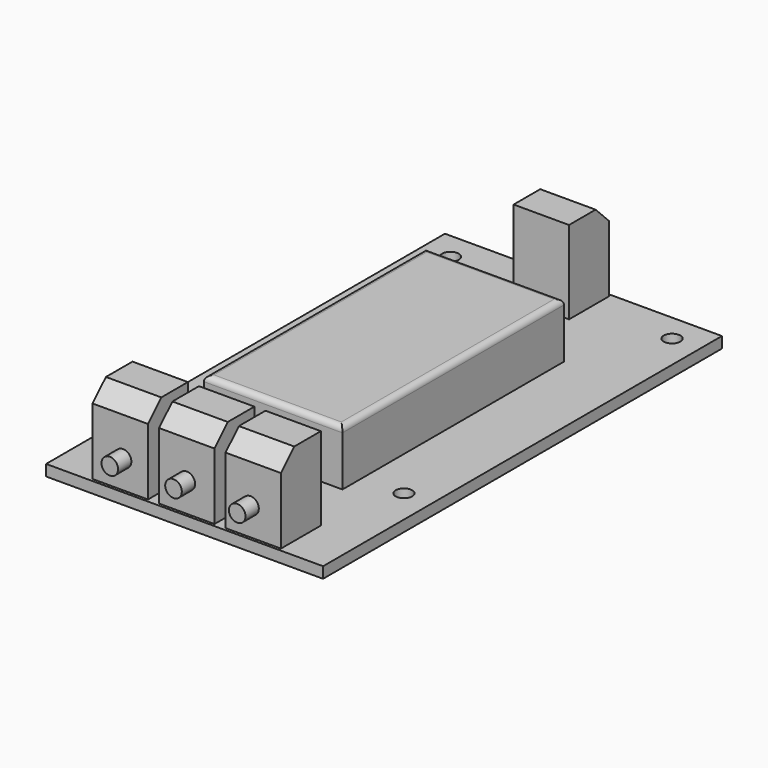
from build123d import *

# Parameters (mm, degrees)
F0_W      = 50
F0_H      = 90
F1_DEPTH  = 2
F2_R      = 1.5
F3_DEPTH  = 2
F4_W      = 25
F4_H      = 50
F5_DEPTH  = 10
F6_W      = 10
F6_H      = 9
F7_DEPTH  = 15
F8_R      = 1.5
F9_DEPTH  = 3
F10_R     = 1.5
F11_DEPTH = 3
F12_R     = 1
F13_SIZE  = 3


with BuildPart() as f1:
    # F0 (on Top) → F1 (new body)
    with BuildSketch(Plane.XY):
        Rectangle(F0_W, F0_H)
    extrude(amount=F1_DEPTH)

    # F2 (on face) → F3 (cut, through all)
    with BuildSketch(Plane.XY.offset(2)):
        with Locations((-20, 40)):
            Circle(F2_R)
        with Locations((20, 40)):
            Circle(F2_R)
        with Locations((-20, -20.5)):
            Circle(F2_R)
        with Locations((20, -20.5)):
            Circle(F2_R)
    extrude(amount=-F3_DEPTH, mode=Mode.SUBTRACT)

    # F4 (on face) → F5 (join)
    with BuildSketch(Plane.XY.offset(2)):
        Rectangle(F4_W, F4_H)
    extrude(amount=F5_DEPTH)

    # F6 (on face) → F7 (join)
    with BuildSketch(Plane.XY.offset(2)):
        with Locations((0, -40)):
            Rectangle(F6_W, F6_H)
        with Locations((0, 40)):
            Rectangle(F6_W, F6_H)
        with Locations((12, -40)):
            Rectangle(F6_W, F6_H)
        with Locations((-12, -40)):
            Rectangle(F6_W, F6_H)
    extrude(amount=F7_DEPTH)

    # F8 (on face) → F9 (join)
    with BuildSketch(Plane(origin=(0, 44.5, 0), x_dir=(-1, 0, 0), z_dir=(0, 1, 0))):
        with Locations((0, 5.333886)):
            Circle(F8_R)
    extrude(amount=F9_DEPTH)

    # F10 (on face) → F11 (join)
    with BuildSketch(Plane.XZ.offset(44.5)):
        with Locations((0, 7.222579)):
            Circle(F10_R)
        with Locations((-11.5, 7.050698)):
            Circle(F10_R)
        with Locations((11.5, 7.050698)):
            Circle(F10_R)
    extrude(amount=F11_DEPTH)

    # F12
    f12_edges = [f1.edges().sort_by_distance(p)[0] for p in [
        (0, -25, 12),
        (12.5, 0, 12),
        (0, 25, 12),
        (-12.5, 0, 12),
    ]]
    fillet(f12_edges, radius=F12_R)

    # F13
    f13_edges = [f1.edges().sort_by_distance(p)[0] for p in [
        (-12, -44.5, 17),
        (0, -44.5, 17),
        (12, -44.5, 17),
        (0, 44.5, 17),
    ]]
    chamfer(f13_edges, length=F13_SIZE)


solid = f1.part
